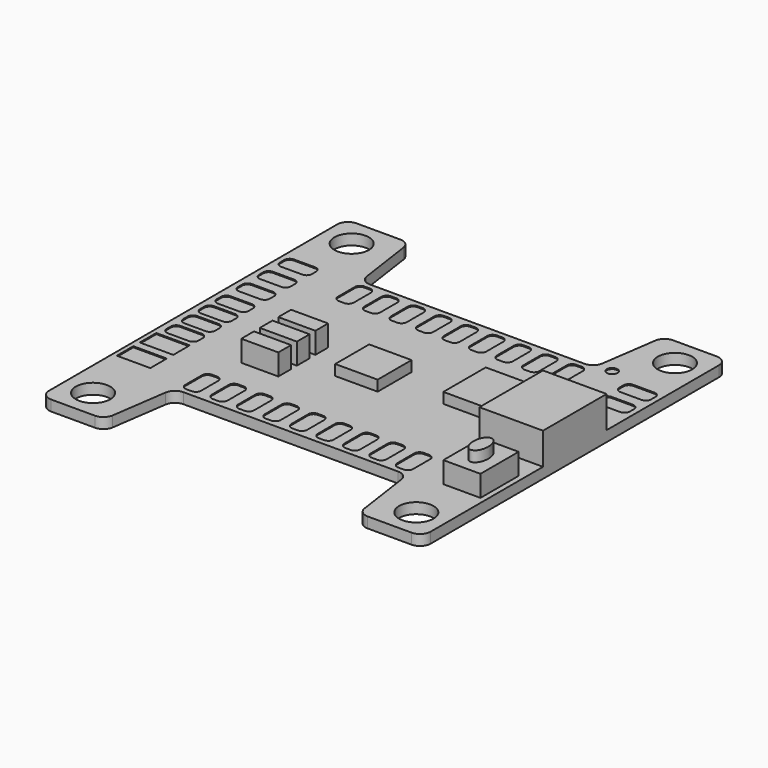
from build123d import *

# Parameters (mm, degrees)
F0_R     = 1.625
F1_DEPTH = 1
F2_R     = 0.5
F2_W     = 3.159994
F2_H     = 1.944611
F2_W_2   = 3.159995
F2_H_2   = 1.94461
F3_DEPTH = 0.1
F4_W     = 5
F4_H     = 5
F4_W_2   = 4
F4_H_2   = 4
F5_DEPTH = 1
F4_W_3   = 3.5
F4_H_3   = 1.5
F6_DEPTH = 2
F4_W_4   = 6
F4_H_4   = 7.5
F7_DEPTH = 3
F4_H_5   = 4.5
F8_DEPTH = 2


with BuildPart() as f1:
    # F0 (on Top) → F1 (new body)
    with BuildSketch(Plane.XY):
        with BuildLine():
            Line((12.866337, -18), (17, -18))
            ThreePointArc((17, -18), (17.707107, -17.707107), (18, -17))
            Line((18, -17), (18, 17))
            ThreePointArc((18, 17), (17.707107, 17.707107), (17, 18))
            Line((17, 18), (12.866337, 18))
            ThreePointArc((12.866337, 18), (12.211549, 17.755812), (11.876543, 17.142505))
            Line((11.876543, 17.142505), (11.115636, 11.857495))
            ThreePointArc((11.115636, 11.857495), (10.78063, 11.244188), (10.125842, 11))
            Line((10.125842, 11), (-10.125842, 11))
            ThreePointArc((-10.125842, 11), (-10.78063, 11.244188), (-11.115636, 11.857495))
            Line((-11.115636, 11.857495), (-11.876543, 17.142505))
            ThreePointArc((-11.876543, 17.142505), (-12.211549, 17.755812), (-12.866337, 18))
            Line((-12.866337, 18), (-17, 18))
            ThreePointArc((-17, 18), (-17.707107, 17.707107), (-18, 17))
            Line((-18, 17), (-18, -17))
            ThreePointArc((-18, -17), (-17.707107, -17.707107), (-17, -18))
            Line((-17, -18), (-12.866337, -18))
            ThreePointArc((-12.866337, -18), (-12.211549, -17.755812), (-11.876543, -17.142505))
            Line((-11.876543, -17.142505), (-11.115636, -11.857495))
            ThreePointArc((-11.115636, -11.857495), (-10.78063, -11.244188), (-10.125842, -11))
            Line((-10.125842, -11), (10.125842, -11))
            ThreePointArc((10.125842, -11), (10.78063, -11.244188), (11.115636, -11.857495))
            Line((11.115636, -11.857495), (11.876543, -17.142505))
            ThreePointArc((11.876543, -17.142505), (12.211549, -17.755812), (12.866337, -18))
        make_face()
        with Locations((-15.25, -15.25)):
            Circle(F0_R, mode=Mode.SUBTRACT)
        with Locations((15.25, -15.25)):
            Circle(F0_R, mode=Mode.SUBTRACT)
        with Locations((-15.25, 15.25)):
            Circle(F0_R, mode=Mode.SUBTRACT)
        with Locations((15.25, 15.25)):
            Circle(F0_R, mode=Mode.SUBTRACT)
    extrude(amount=F1_DEPTH)

    # F2 (on face) → F3 (cut)
    with BuildSketch(Plane.XY.offset(1)):
        with BuildLine():
            Line((-0.25, 7.5), (0.25, 7.5))
            ThreePointArc((0.25, 7.5), (0.603553, 7.646447), (0.75, 8))
            Line((0.75, 8), (0.75, 10))
            ThreePointArc((0.75, 10), (0.603553, 10.353553), (0.25, 10.5))
            Line((0.25, 10.5), (-0.25, 10.5))
            ThreePointArc((-0.25, 10.5), (-0.603553, 10.353553), (-0.75, 10))
            Line((-0.75, 10), (-0.75, 8))
            ThreePointArc((-0.75, 8), (-0.603553, 7.646447), (-0.25, 7.5))
        make_face()
        with BuildLine():
            ThreePointArc((2.75, 7.5), (3.103553, 7.646447), (3.25, 8))
            Line((3.25, 8), (3.25, 10))
            ThreePointArc((3.25, 10), (3.103553, 10.353553), (2.75, 10.5))
            Line((2.75, 10.5), (2.25, 10.5))
            ThreePointArc((2.25, 10.5), (1.896447, 10.353553), (1.75, 10))
            Line((1.75, 10), (1.75, 8))
            ThreePointArc((1.75, 8), (1.896447, 7.646447), (2.25, 7.5))
            Line((2.25, 7.5), (2.75, 7.5))
        make_face()
        with BuildLine():
            ThreePointArc((5.25, 7.5), (5.603553, 7.646447), (5.75, 8))
            Line((5.75, 8), (5.75, 10))
            ThreePointArc((5.75, 10), (5.603553, 10.353553), (5.25, 10.5))
            Line((5.25, 10.5), (4.75, 10.5))
            ThreePointArc((4.75, 10.5), (4.396447, 10.353553), (4.25, 10))
            Line((4.25, 10), (4.25, 8))
            ThreePointArc((4.25, 8), (4.396447, 7.646447), (4.75, 7.5))
            Line((4.75, 7.5), (5.25, 7.5))
        make_face()
        with BuildLine():
            ThreePointArc((7.75, 7.5), (8.103553, 7.646447), (8.25, 8))
            Line((8.25, 8), (8.25, 10))
            ThreePointArc((8.25, 10), (8.103553, 10.353553), (7.75, 10.5))
            Line((7.75, 10.5), (7.25, 10.5))
            ThreePointArc((7.25, 10.5), (6.896447, 10.353553), (6.75, 10))
            Line((6.75, 10), (6.75, 8))
            ThreePointArc((6.75, 8), (6.896447, 7.646447), (7.25, 7.5))
            Line((7.25, 7.5), (7.75, 7.5))
        make_face()
        with BuildLine():
            ThreePointArc((10.25, 7.5), (10.603553, 7.646447), (10.75, 8))
            Line((10.75, 8), (10.75, 10))
            ThreePointArc((10.75, 10), (10.603553, 10.353553), (10.25, 10.5))
            Line((10.25, 10.5), (9.75, 10.5))
            ThreePointArc((9.75, 10.5), (9.396447, 10.353553), (9.25, 10))
            Line((9.25, 10), (9.25, 8))
            ThreePointArc((9.25, 8), (9.396447, 7.646447), (9.75, 7.5))
            Line((9.75, 7.5), (10.25, 7.5))
        make_face()
        with BuildLine():
            ThreePointArc((-9.75, 7.5), (-9.396447, 7.646447), (-9.25, 8))
            Line((-9.25, 8), (-9.25, 10))
            ThreePointArc((-9.25, 10), (-9.396447, 10.353553), (-9.75, 10.5))
            Line((-9.75, 10.5), (-10.25, 10.5))
            ThreePointArc((-10.25, 10.5), (-10.603553, 10.353553), (-10.75, 10))
            Line((-10.75, 10), (-10.75, 8))
            ThreePointArc((-10.75, 8), (-10.603553, 7.646447), (-10.25, 7.5))
            Line((-10.25, 7.5), (-9.75, 7.5))
        make_face()
        with BuildLine():
            Line((-7.25, 10.5), (-7.75, 10.5))
            ThreePointArc((-7.75, 10.5), (-8.103553, 10.353553), (-8.25, 10))
            Line((-8.25, 10), (-8.25, 8))
            ThreePointArc((-8.25, 8), (-8.103553, 7.646447), (-7.75, 7.5))
            Line((-7.75, 7.5), (-7.25, 7.5))
            ThreePointArc((-7.25, 7.5), (-6.896447, 7.646447), (-6.75, 8))
            Line((-6.75, 8), (-6.75, 10))
            ThreePointArc((-6.75, 10), (-6.896447, 10.353553), (-7.25, 10.5))
        make_face()
        with BuildLine():
            ThreePointArc((-4.75, 7.5), (-4.396447, 7.646447), (-4.25, 8))
            Line((-4.25, 8), (-4.25, 10))
            ThreePointArc((-4.25, 10), (-4.396447, 10.353553), (-4.75, 10.5))
            Line((-4.75, 10.5), (-5.25, 10.5))
            ThreePointArc((-5.25, 10.5), (-5.603553, 10.353553), (-5.75, 10))
            Line((-5.75, 10), (-5.75, 8))
            ThreePointArc((-5.75, 8), (-5.603553, 7.646447), (-5.25, 7.5))
            Line((-5.25, 7.5), (-4.75, 7.5))
        make_face()
        with BuildLine():
            ThreePointArc((-2.25, 7.5), (-1.896447, 7.646447), (-1.75, 8))
            Line((-1.75, 8), (-1.75, 10))
            ThreePointArc((-1.75, 10), (-1.896447, 10.353553), (-2.25, 10.5))
            Line((-2.25, 10.5), (-2.75, 10.5))
            ThreePointArc((-2.75, 10.5), (-3.103553, 10.353553), (-3.25, 10))
            Line((-3.25, 10), (-3.25, 8))
            ThreePointArc((-3.25, 8), (-3.103553, 7.646447), (-2.75, 7.5))
            Line((-2.75, 7.5), (-2.25, 7.5))
        make_face()
        with BuildLine():
            ThreePointArc((9.75, -7.5), (9.396447, -7.646447), (9.25, -8))
            Line((9.25, -8), (9.25, -10))
            ThreePointArc((9.25, -10), (9.396447, -10.353553), (9.75, -10.5))
            Line((9.75, -10.5), (10.25, -10.5))
            ThreePointArc((10.25, -10.5), (10.603553, -10.353553), (10.75, -10))
            Line((10.75, -10), (10.75, -8))
            ThreePointArc((10.75, -8), (10.603553, -7.646447), (10.25, -7.5))
            Line((10.25, -7.5), (9.75, -7.5))
        make_face()
        with BuildLine():
            Line((7.25, -10.5), (7.75, -10.5))
            ThreePointArc((7.75, -10.5), (8.103553, -10.353553), (8.25, -10))
            Line((8.25, -10), (8.25, -8))
            ThreePointArc((8.25, -8), (8.103553, -7.646447), (7.75, -7.5))
            Line((7.75, -7.5), (7.25, -7.5))
            ThreePointArc((7.25, -7.5), (6.896447, -7.646447), (6.75, -8))
            Line((6.75, -8), (6.75, -10))
            ThreePointArc((6.75, -10), (6.896447, -10.353553), (7.25, -10.5))
        make_face()
        with BuildLine():
            Line((-3.25, -8), (-3.25, -10))
            ThreePointArc((-3.25, -10), (-3.103553, -10.353553), (-2.75, -10.5))
            Line((-2.75, -10.5), (-2.25, -10.5))
            ThreePointArc((-2.25, -10.5), (-1.896447, -10.353553), (-1.75, -10))
            Line((-1.75, -10), (-1.75, -8))
            ThreePointArc((-1.75, -8), (-1.896447, -7.646447), (-2.25, -7.5))
            Line((-2.25, -7.5), (-2.75, -7.5))
            ThreePointArc((-2.75, -7.5), (-3.103553, -7.646447), (-3.25, -8))
        make_face()
        with BuildLine():
            Line((-10.25, -10.5), (-9.75, -10.5))
            ThreePointArc((-9.75, -10.5), (-9.396447, -10.353553), (-9.25, -10))
            Line((-9.25, -10), (-9.25, -8))
            ThreePointArc((-9.25, -8), (-9.396447, -7.646447), (-9.75, -7.5))
            Line((-9.75, -7.5), (-10.25, -7.5))
            ThreePointArc((-10.25, -7.5), (-10.603553, -7.646447), (-10.75, -8))
            Line((-10.75, -8), (-10.75, -10))
            ThreePointArc((-10.75, -10), (-10.603553, -10.353553), (-10.25, -10.5))
        make_face()
        with BuildLine():
            ThreePointArc((4.75, -7.5), (4.396447, -7.646447), (4.25, -8))
            Line((4.25, -8), (4.25, -10))
            ThreePointArc((4.25, -10), (4.396447, -10.353553), (4.75, -10.5))
            Line((4.75, -10.5), (5.25, -10.5))
            ThreePointArc((5.25, -10.5), (5.603553, -10.353553), (5.75, -10))
            Line((5.75, -10), (5.75, -8))
            ThreePointArc((5.75, -8), (5.603553, -7.646447), (5.25, -7.5))
            Line((5.25, -7.5), (4.75, -7.5))
        make_face()
        with BuildLine():
            Line((-4.25, -10), (-4.25, -8))
            ThreePointArc((-4.25, -8), (-4.396447, -7.646447), (-4.75, -7.5))
            Line((-4.75, -7.5), (-5.25, -7.5))
            ThreePointArc((-5.25, -7.5), (-5.603553, -7.646447), (-5.75, -8))
            Line((-5.75, -8), (-5.75, -10))
            ThreePointArc((-5.75, -10), (-5.603553, -10.353553), (-5.25, -10.5))
            Line((-5.25, -10.5), (-4.75, -10.5))
            ThreePointArc((-4.75, -10.5), (-4.396447, -10.353553), (-4.25, -10))
        make_face()
        with BuildLine():
            Line((-8.25, -8), (-8.25, -10))
            ThreePointArc((-8.25, -10), (-8.103553, -10.353553), (-7.75, -10.5))
            Line((-7.75, -10.5), (-7.25, -10.5))
            ThreePointArc((-7.25, -10.5), (-6.896447, -10.353553), (-6.75, -10))
            Line((-6.75, -10), (-6.75, -8))
            ThreePointArc((-6.75, -8), (-6.896447, -7.646447), (-7.25, -7.5))
            Line((-7.25, -7.5), (-7.75, -7.5))
            ThreePointArc((-7.75, -7.5), (-8.103553, -7.646447), (-8.25, -8))
        make_face()
        with BuildLine():
            ThreePointArc((2.25, -7.5), (1.896447, -7.646447), (1.75, -8))
            Line((1.75, -8), (1.75, -10))
            ThreePointArc((1.75, -10), (1.896447, -10.353553), (2.25, -10.5))
            Line((2.25, -10.5), (2.75, -10.5))
            ThreePointArc((2.75, -10.5), (3.103553, -10.353553), (3.25, -10))
            Line((3.25, -10), (3.25, -8))
            ThreePointArc((3.25, -8), (3.103553, -7.646447), (2.75, -7.5))
            Line((2.75, -7.5), (2.25, -7.5))
        make_face()
        with BuildLine():
            ThreePointArc((-0.25, -7.5), (-0.603553, -7.646447), (-0.75, -8))
            Line((-0.75, -8), (-0.75, -10))
            ThreePointArc((-0.75, -10), (-0.603553, -10.353553), (-0.25, -10.5))
            Line((-0.25, -10.5), (0.25, -10.5))
            ThreePointArc((0.25, -10.5), (0.603553, -10.353553), (0.75, -10))
            Line((0.75, -10), (0.75, -8))
            ThreePointArc((0.75, -8), (0.603553, -7.646447), (0.25, -7.5))
            Line((0.25, -7.5), (-0.25, -7.5))
        make_face()
        with BuildLine():
            Line((-14.5, 9.625), (-14.5, 10.125))
            ThreePointArc((-14.5, 10.125), (-14.646447, 10.478553), (-15, 10.625))
            Line((-15, 10.625), (-17, 10.625))
            ThreePointArc((-17, 10.625), (-17.353553, 10.478553), (-17.5, 10.125))
            Line((-17.5, 10.125), (-17.5, 9.625))
            ThreePointArc((-17.5, 9.625), (-17.353553, 9.271447), (-17, 9.125))
            Line((-17, 9.125), (-15, 9.125))
            ThreePointArc((-15, 9.125), (-14.646447, 9.271447), (-14.5, 9.625))
        make_face()
        with BuildLine():
            Line((-14.985053, 8.125045), (-16.985053, 8.125045))
            ThreePointArc((-16.985053, 8.125045), (-17.338606, 7.978598), (-17.485053, 7.625045))
            Line((-17.485053, 7.625045), (-17.485053, 7.125045))
            ThreePointArc((-17.485053, 7.125045), (-17.338606, 6.771491), (-16.985053, 6.625045))
            Line((-16.985053, 6.625045), (-14.985053, 6.625045))
            ThreePointArc((-14.985053, 6.625045), (-14.631499, 6.771491), (-14.485053, 7.125045))
            Line((-14.485053, 7.125045), (-14.485053, 7.625045))
            ThreePointArc((-14.485053, 7.625045), (-14.631499, 7.978598), (-14.985053, 8.125045))
        make_face()
        with BuildLine():
            Line((-14.970105, 5.625089), (-16.970105, 5.625089))
            ThreePointArc((-16.970105, 5.625089), (-17.323659, 5.478643), (-17.470105, 5.125089))
            Line((-17.470105, 5.125089), (-17.470105, 4.625089))
            ThreePointArc((-17.470105, 4.625089), (-17.323659, 4.271536), (-16.970105, 4.125089))
            Line((-16.970105, 4.125089), (-14.970105, 4.125089))
            ThreePointArc((-14.970105, 4.125089), (-14.616552, 4.271536), (-14.470105, 4.625089))
            Line((-14.470105, 4.625089), (-14.470105, 5.125089))
            ThreePointArc((-14.470105, 5.125089), (-14.616552, 5.478643), (-14.970105, 5.625089))
        make_face()
        with BuildLine():
            ThreePointArc((15, 10.625), (14.646447, 10.478553), (14.5, 10.125))
            Line((14.5, 10.125), (14.5, 9.625))
            ThreePointArc((14.5, 9.625), (14.646447, 9.271447), (15, 9.125))
            Line((15, 9.125), (17, 9.125))
            ThreePointArc((17, 9.125), (17.353553, 9.271447), (17.5, 9.625))
            Line((17.5, 9.625), (17.5, 10.125))
            ThreePointArc((17.5, 10.125), (17.353553, 10.478553), (17, 10.625))
            Line((17, 10.625), (15, 10.625))
        make_face()
        with BuildLine():
            ThreePointArc((14.985053, 8.125045), (14.631499, 7.978598), (14.485053, 7.625045))
            Line((14.485053, 7.625045), (14.485053, 7.125045))
            ThreePointArc((14.485053, 7.125045), (14.631499, 6.771491), (14.985053, 6.625045))
            Line((14.985053, 6.625045), (16.985053, 6.625045))
            ThreePointArc((16.985053, 6.625045), (17.338606, 6.771491), (17.485053, 7.125045))
            Line((17.485053, 7.125045), (17.485053, 7.625045))
            ThreePointArc((17.485053, 7.625045), (17.338606, 7.978598), (16.985053, 8.125045))
            Line((16.985053, 8.125045), (14.985053, 8.125045))
        make_face()
        with Locations((12.435159, 11.359358)):
            Circle(F2_R)
        with BuildLine():
            Line((-14.970105, 3.125089), (-16.970105, 3.125089))
            ThreePointArc((-16.970105, 3.125089), (-17.323659, 2.978643), (-17.470105, 2.625089))
            Line((-17.470105, 2.625089), (-17.470105, 2.125089))
            ThreePointArc((-17.470105, 2.125089), (-17.323659, 1.771536), (-16.970105, 1.625089))
            Line((-16.970105, 1.625089), (-14.970105, 1.625089))
            ThreePointArc((-14.970105, 1.625089), (-14.616552, 1.771536), (-14.470105, 2.125089))
            Line((-14.470105, 2.125089), (-14.470105, 2.625089))
            ThreePointArc((-14.470105, 2.625089), (-14.616552, 2.978643), (-14.970105, 3.125089))
        make_face()
        with BuildLine():
            Line((-14.947003, 1.125223), (-16.947003, 1.125223))
            ThreePointArc((-16.947003, 1.125223), (-17.300556, 0.978776), (-17.447003, 0.625223))
            Line((-17.447003, 0.625223), (-17.447003, 0.125223))
            ThreePointArc((-17.447003, 0.125223), (-17.300556, -0.228331), (-16.947003, -0.374777))
            Line((-16.947003, -0.374777), (-14.947003, -0.374777))
            ThreePointArc((-14.947003, -0.374777), (-14.593449, -0.228331), (-14.447003, 0.125223))
            Line((-14.447003, 0.125223), (-14.447003, 0.625223))
            ThreePointArc((-14.447003, 0.625223), (-14.593449, 0.978776), (-14.947003, 1.125223))
        make_face()
        with BuildLine():
            Line((-14.9239, -0.874644), (-16.9239, -0.874644))
            ThreePointArc((-16.9239, -0.874644), (-17.277453, -1.02109), (-17.4239, -1.374644))
            Line((-17.4239, -1.374644), (-17.4239, -1.874644))
            ThreePointArc((-17.4239, -1.874644), (-17.277453, -2.228197), (-16.9239, -2.374644))
            Line((-16.9239, -2.374644), (-14.9239, -2.374644))
            ThreePointArc((-14.9239, -2.374644), (-14.570347, -2.228197), (-14.4239, -1.874644))
            Line((-14.4239, -1.874644), (-14.4239, -1.374644))
            ThreePointArc((-14.4239, -1.374644), (-14.570347, -1.02109), (-14.9239, -0.874644))
        make_face()
        with BuildLine():
            Line((-14.900797, -2.87451), (-16.900797, -2.87451))
            ThreePointArc((-16.900797, -2.87451), (-17.254351, -3.020957), (-17.400797, -3.37451))
            Line((-17.400797, -3.37451), (-17.400797, -3.87451))
            ThreePointArc((-17.400797, -3.87451), (-17.254351, -4.228064), (-16.900797, -4.37451))
            Line((-16.900797, -4.37451), (-14.900797, -4.37451))
            ThreePointArc((-14.900797, -4.37451), (-14.547244, -4.228064), (-14.400797, -3.87451))
            Line((-14.400797, -3.87451), (-14.400797, -3.37451))
            ThreePointArc((-14.400797, -3.37451), (-14.547244, -3.020957), (-14.900797, -2.87451))
        make_face()
        with Locations((-16.002508, -5.846815)):
            Rectangle(F2_W, F2_H)
        with Locations((-16.008995, -8.546808)):
            Rectangle(F2_W_2, F2_H_2)
    extrude(amount=-F3_DEPTH, mode=Mode.SUBTRACT)

    # F4 (on face) → F5 (join)
    with BuildSketch(Plane.XY.offset(1)):
        with Locations((8.5, 2)):
            Rectangle(F4_W, F4_H)
        with Locations((-1, 0)):
            Rectangle(F4_W_2, F4_H_2)
    extrude(amount=F5_DEPTH)

    # F4 (on face) → F6 (join)
    with BuildSketch(Plane.XY.offset(1)):
        with Locations((-8, 0.47323)):
            Rectangle(F4_W_3, F4_H_3)
        with Locations((-7.98739, -1.726734)):
            Rectangle(F4_W_3, F4_H_3)
        with Locations((-7.97478, -3.926698)):
            Rectangle(F4_W_3, F4_H_3)
    extrude(amount=F6_DEPTH)

    # F4 (on face) → F7 (join)
    with BuildSketch(Plane.XY.offset(1)):
        with Locations((15, 0)):
            Rectangle(F4_W_4, F4_H_4)
        with BuildLine():
            add(Edge.make_bspline(
                [(15.75, -9.45), (16.962436, -9.45), (16.356218, -7.65), (15.75, -5.85), (15.143782, -7.65), (14.537564, -9.45), (15.75, -9.45)],
                knots=[0, 0, 0, 2.094395, 2.094395, 4.18879, 4.18879, 6.283185, 6.283185, 6.283185], degree=2, weights=[1, 0.5, 1, 0.5, 1, 0.5, 1]))
        make_face()
    extrude(amount=F7_DEPTH)

    # F4 (on face) → F8 (join)
    with BuildSketch(Plane.XY.offset(1)):
        with Locations((15.75, -8.25)):
            Rectangle(F4_W_3, F4_H_5)
        with BuildLine():
            add(Edge.make_bspline(
                [(15.75, -9.45), (16.962436, -9.45), (16.356218, -7.65), (15.75, -5.85), (15.143782, -7.65), (14.537564, -9.45), (15.75, -9.45)],
                knots=[0, 0, 0, 2.094395, 2.094395, 4.18879, 4.18879, 6.283185, 6.283185, 6.283185], degree=2, weights=[1, 0.5, 1, 0.5, 1, 0.5, 1]))
        make_face(mode=Mode.SUBTRACT)
    extrude(amount=F8_DEPTH)


solid = f1.part
